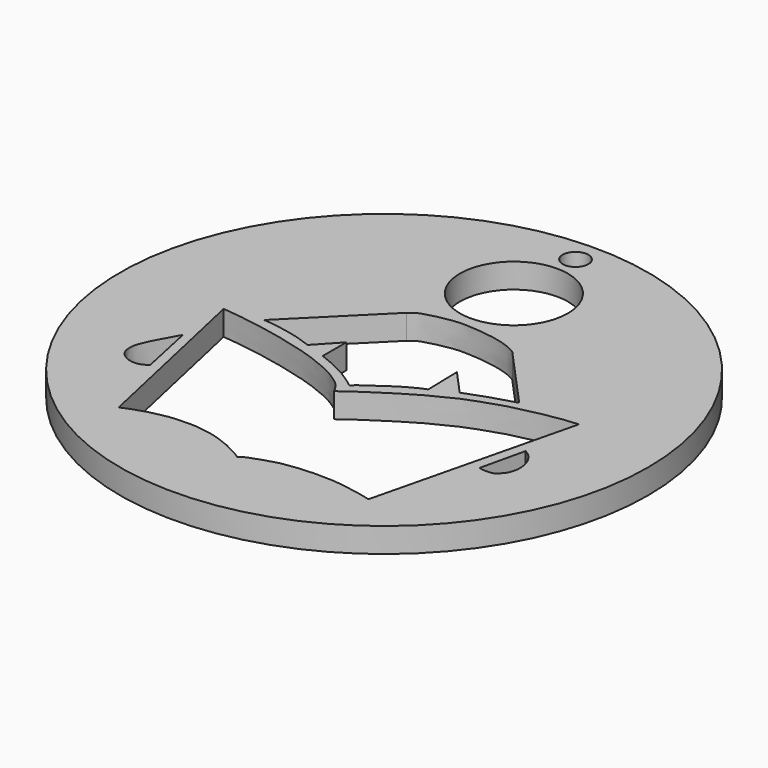
from build123d import *

# Parameters (mm, degrees)
F1_R     = 67.9240818275
F1_R_2   = 3.2970637352
F2_DEPTH = 6.35
F0_R     = 13.8845983505
F3_DEPTH = 6.35


with BuildPart() as f2:
    # F1 (on Top) → F2 (new body)
    with BuildSketch(Plane.XY):
        with Locations((-29.5165721327, 0)):
            Circle(F1_R)
        with Locations((-29.5165721327, 61.5898780525)):
            Circle(F1_R_2, mode=Mode.SUBTRACT)
    extrude(amount=F2_DEPTH)

    # F0 (on Top) → F3 (cut)
    with BuildSketch(Plane.XY):
        with BuildLine():
            add(Edge.make_bspline(
                [(-29.0498677641, -47.994083102), (-28.7562750483, -47.7744943748), (-28.0326832273, -47.233293594), (-25.5901475599, -46.2825085236), (-22.628303243, -45.3308594809), (-19.6171726554, -44.4731391282), (-15.1873701434, -44.0529235188), (-12.2234331544, -43.8706255299), (-7.5865516521, -43.9108818725), (-4.2181497721, -44.3930452447), (-0.4931025602, -45.0155043138), (1.39234573, -45.4177008249), (2.5827954274, -45.7454541012), (3.1660166569, -45.9060259163)],
                knots=[0, 0, 0, 0, 0.0584373646, 0.1440253685, 0.2384074636, 0.3337833128, 0.4445463725, 0.5385430693, 0.6512464007, 0.7524465741, 0.8545872542, 0.9287598623, 1, 1, 1, 1], degree=3))
            Line((3.1660166569, -45.9060259163), (15.8340260386, 5.9648929164))
            add(Edge.make_bspline(
                [(15.8340260386, 5.9648929164), (15.2384968235, 5.9327749915), (13.7677368409, 5.8534543514), (9.4623754806, 5.2804309627), (4.5839345102, 4.2674281698), (-0.4838561282, 3.1191257922), (-4.3472023994, 1.7498205974), (-8.865106749, 0.2382220688), (-12.6642021735, -1.6538779414), (-16.3704653674, -3.4899302211), (-20.6267373868, -6.0252186493), (-24.3588765036, -8.4874460643), (-29.3154189292, -11.7076169373), (-30.9557944538, -13.003740058), (-31.6331088543, -13.5389119387)],
                knots=[0, 0, 0, 0, 0.0566828993, 0.1399879937, 0.2318621526, 0.3232520906, 0.4052447923, 0.4927595075, 0.5757864811, 0.6578743994, 0.7466184655, 0.8339648127, 0.9314437325, 1, 1, 1, 1], degree=3))
            add(Edge.make_bspline(
                [(-31.6331088543, -13.5389119387), (-31.7559753606, -13.2574223409), (-32.0196692251, -12.6532944785), (-32.7174360962, -11.5840806695), (-33.7581196216, -10.3896553325), (-35.6249676026, -9.0808042113), (-37.513212275, -7.8419555334), (-39.9590098241, -6.7025302991), (-42.6435731092, -5.5716989936), (-45.4654422731, -4.5279038012), (-48.0858137167, -3.7323539864), (-51.6836075871, -2.7818105416), (-55.2873543074, -1.9026873303), (-58.4913611853, -1.2315675394), (-61.6612863142, -0.6469579575), (-65.0422872661, -0.1026984819), (-68.5683342745, 0.3734442186), (-70.4355544851, 0.5479134916), (-71.3065415621, 0.6292967591)],
                knots=[0, 0, 0, 0, 0.0375386, 0.0805646616, 0.1290759605, 0.1869720465, 0.245212555, 0.3081916776, 0.3744215958, 0.4408225673, 0.5046476095, 0.5788703832, 0.6536008643, 0.7231355156, 0.7919800641, 0.8637021576, 0.9364222502, 1, 1, 1, 1], degree=3))
            Line((-71.3065415621, 0.6292967591), (-60.9741993248, -46.0623055696))
            add(Edge.make_bspline(
                [(-60.9741993248, -46.0623055696), (-60.6151729445, -45.8891432414), (-59.8204888356, -45.5058584521), (-58.0754151915, -44.8839267704), (-55.6804866208, -44.0295365508), (-52.899440529, -43.3777685087), (-49.7898543048, -42.7990861879), (-47.4044953043, -42.7689488167), (-43.7021474647, -42.6166882508), (-41.3471534926, -43.1206743429), (-38.4853074258, -43.5358546676), (-36.2461458511, -44.3262400311), (-34.0754122427, -45.1229750276), (-31.556117416, -46.3970906091), (-29.700845648, -47.4279703562), (-29.2298332206, -47.8375789545), (-29.0498677641, -47.994083102)],
                knots=[0, 0, 0, 0, 0.0522039384, 0.1155503956, 0.1902201948, 0.2703336821, 0.3525330784, 0.4261238857, 0.5149147516, 0.5888516207, 0.6674970059, 0.7395371623, 0.8106029787, 0.8904046518, 0.9581255701, 1, 1, 1, 1], degree=3))
        make_face()
        with Locations((-29.9460499995, 42.2867882448)):
            Circle(F0_R)
        with BuildLine():
            Line((14.7338649258, -9.7936093807), (12.0970150456, -21.2902743369))
            add(Edge.make_bspline(
                [(12.0970150456, -21.2902743369), (12.4305441601, -21.3898383375), (13.0810254211, -21.5840178374), (13.965446666, -21.5724464281), (15.7554651618, -21.6184021643), (16.8296099665, -20.5065314961), (17.7038120002, -19.6877452516), (18.2410719919, -18.2095070718), (18.5997800341, -16.5827316107), (18.3353808507, -14.3945977554), (17.6418535632, -12.5556286434), (16.5989633088, -11.1646383857), (15.7241257156, -10.3291787179), (15.05975327, -9.969861744), (14.7338649258, -9.7936093807)],
                knots=[0, 0, 0, 0, 0.069369053, 0.1352903453, 0.2256027492, 0.3099553662, 0.3854291327, 0.4705246795, 0.5604983881, 0.6627266994, 0.7606750176, 0.8513036552, 0.9270613857, 1, 1, 1, 1], degree=3))
        make_face()
        with BuildLine():
            Line((-67.541770637, -27.8001111001), (-70.6199258566, -13.3169991896))
            add(Edge.make_bspline(
                [(-67.541770637, -27.8001111001), (-67.8592974548, -27.9678826055), (-68.5423262068, -28.3287742077), (-69.8928592225, -28.9809476863), (-71.8531585295, -28.8184438377), (-73.3697382485, -28.2596362107), (-75.0780945469, -26.8723304257), (-75.5511129776, -24.9505261106), (-75.4487384922, -22.7675251051), (-74.1749168858, -19.7816825627), (-72.6283809325, -17.0063518412), (-71.3183732321, -14.5999846583), (-70.6199258566, -13.3169991896)],
                knots=[0, 0, 0, 0, 0.0710682999, 0.1528743069, 0.2456703251, 0.3320985068, 0.4292256394, 0.5216087698, 0.6202715482, 0.7402961601, 0.8615355731, 1, 1, 1, 1], degree=3))
        make_face()
        with BuildLine():
            add(Edge.make_bspline(
                [(-48.307005316, -1.1013938347), (-48.806436791, -0.9152700344), (-50.0401714409, -0.4213164381), (-52.5482199289, 0.3300226769), (-54.9790562259, 0.9210327378), (-58.2142337763, 1.4954046457), (-60.5072072538, 1.8634804189), (-61.4352327642, 1.8976641634), (-61.9190074503, 1.9162708195)],
                knots=[0, 0, 0, 0, 0.1485561988, 0.3261472509, 0.5029687094, 0.7036791256, 0.8705749514, 1, 1, 1, 1], degree=3))
            Line((-48.307005316, -1.1013938347), (-42.9509058595, 4.6618939377))
            Line((-42.9509058595, 4.6618939377), (-42.9509058595, -2.9494049959))
            add(Edge.make_bspline(
                [(-42.9509058595, -2.9494049959), (-42.369001034, -3.1536515402), (-41.0880423516, -3.6032635263), (-38.4456896654, -4.8222161034), (-36.5025220165, -5.7280933104), (-33.8352399083, -7.3365775098), (-32.368731582, -8.4461148571), (-31.3026559449, -9.2070628451), (-30.7665653527, -9.5897158608)],
                knots=[0, 0, 0, 0, 0.1542842522, 0.3396289972, 0.505122399, 0.6965110369, 0.847386459, 1, 1, 1, 1], degree=3))
            add(Edge.make_bspline(
                [(-30.7665653527, -9.5897158608), (-30.4377735021, -9.2717806162), (-29.6410525398, -8.5015392638), (-26.9373515405, -6.7328604933), (-24.3785711846, -4.87965384), (-21.3838575318, -2.9298077051), (-18.7235908162, -1.6299498574), (-17.7567602172, -1.237326992), (-17.2959100455, -1.0587312281)],
                knots=[0, 0, 0, 0, 0.127189264, 0.3116020539, 0.4992686543, 0.6966212053, 0.8733754999, 1, 1, 1, 1], degree=3))
            Line((-17.2959100455, -1.0587312281), (-17.5091419369, 8.4176026285))
            Line((-17.5091419369, 8.4176026285), (-11.4785972983, 1.7769651022))
            add(Edge.make_bspline(
                [(-11.4785972983, 1.7769651022), (-10.643786198, 2.1082891187), (-8.690945412, 2.8833423644), (-3.6809913971, 4.5894429261), (-0.7712276092, 5.3995512093), (0.6294193445, 5.7895057835)],
                knots=[0, 0, 0, 0, 0.279153373, 0.6530125104, 1, 1, 1, 1], degree=3))
            Line((0.6294193445, 5.7895057835), (-13.3345490322, 21.1475472897))
            add(Edge.make_bspline(
                [(-13.3345490322, 21.1475472897), (-13.6046610438, 21.5160603278), (-14.2439055986, 22.3998900999), (-17.1542964167, 23.7580529541), (-21.3265620468, 24.9030413288), (-27.8520509757, 25.6130437225), (-32.4351599793, 25.5117042473), (-38.9232060036, 24.0122505989), (-40.2592197061, 23.2942011207), (-41.5158644319, 22.2571324557)],
                knots=[0, 0, 0, 0, 0.0852197997, 0.2081060021, 0.3584138568, 0.5378075164, 0.695214424, 0.8695151155, 1, 1, 1, 1], degree=3))
            Line((-41.5158644319, 22.2571324557), (-61.9190074503, 1.9162708195))
        make_face()
    extrude(amount=F3_DEPTH, mode=Mode.SUBTRACT)


solid = f2.part
